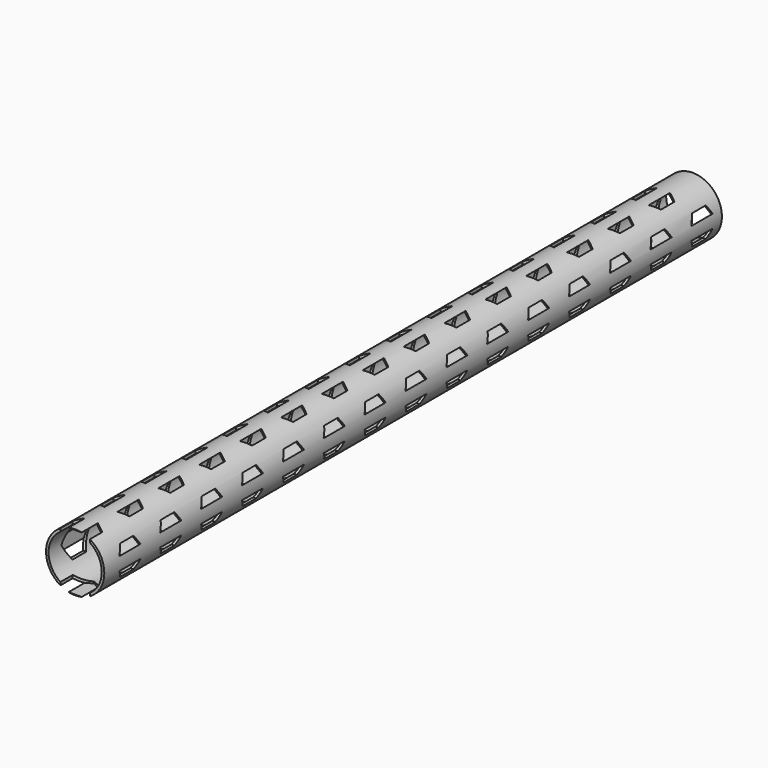
from build123d import *

# Parameters (mm, degrees)
F0_R     = 12.828899
F0_R_2   = 11.717032
F1_DEPTH = 170
F3_DEPTH = 12.5
F5_DEPTH = 12.5


with BuildPart() as f1:
    # F0 (on Front) → F1 (new body, symmetric)
    with BuildSketch(Plane.XZ):
        Circle(F0_R)
        Circle(F0_R_2, mode=Mode.SUBTRACT)
    extrude(amount=F1_DEPTH, both=True)

    # F2 (on Right) → F3 (cut, symmetric)
    with BuildSketch(Plane.YZ):
        Polygon((163.25, 6.495191), (155.75, 6.495191), (152, 0), (155.75, -6.495191), (163.25, -6.495191), (167, 0), align=None)
        Polygon((140.75, 6.495191), (133.25, 6.495191), (129.5, 0), (133.25, -6.495191), (140.75, -6.495191), (144.5, 0), align=None)
        Polygon((118.25, 6.495191), (110.75, 6.495191), (107, 0), (110.75, -6.495191), (118.25, -6.495191), (122, 0), align=None)
        Polygon((95.75, 6.495191), (88.25, 6.495191), (84.5, 0), (88.25, -6.495191), (95.75, -6.495191), (99.5, 0), align=None)
        Polygon((73.25, 6.495191), (65.75, 6.495191), (62, 0), (65.75, -6.495191), (73.25, -6.495191), (77, 0), align=None)
        Polygon((50.75, 6.495191), (43.25, 6.495191), (39.5, 0), (43.25, -6.495191), (50.75, -6.495191), (54.5, 0), align=None)
        Polygon((28.25, 6.495191), (20.75, 6.495191), (17, 0), (20.75, -6.495191), (28.25, -6.495191), (32, 0), align=None)
        Polygon((5.75, 6.495191), (-1.75, 6.495191), (-5.5, 0), (-1.75, -6.495191), (5.75, -6.495191), (9.5, 0), align=None)
        Polygon((-16.75, 6.495191), (-24.25, 6.495191), (-28, 0), (-24.25, -6.495191), (-16.75, -6.495191), (-13, 0), align=None)
        Polygon((-39.25, 6.495191), (-46.75, 6.495191), (-50.5, 0), (-46.75, -6.495191), (-39.25, -6.495191), (-35.5, 0), align=None)
        Polygon((-61.75, 6.495191), (-69.25, 6.495191), (-73, 0), (-69.25, -6.495191), (-61.75, -6.495191), (-58, 0), align=None)
        Polygon((-84.25, 6.495191), (-91.75, 6.495191), (-95.5, 0), (-91.75, -6.495191), (-84.25, -6.495191), (-80.5, 0), align=None)
        Polygon((-106.75, 6.495191), (-114.25, 6.495191), (-118, 0), (-114.25, -6.495191), (-106.75, -6.495191), (-103, 0), align=None)
        Polygon((-129.25, 6.495191), (-136.75, 6.495191), (-140.5, 0), (-136.75, -6.495191), (-129.25, -6.495191), (-125.5, 0), align=None)
        Polygon((-151.75, 6.495191), (-159.25, 6.495191), (-163, 0), (-159.25, -6.495191), (-151.75, -6.495191), (-148, 0), align=None)
    extrude(amount=F3_DEPTH, both=True, mode=Mode.SUBTRACT)

    # F4 (on Top) → F5 (cut, symmetric)
    with BuildSketch(Plane.XY):
        Polygon((6.497454, -170.729538), (6.497454, -163.229538), (0.002263, -159.479538), (-6.492927, -163.229538), (-6.492927, -170.729538), (0.002263, -174.479538), align=None)
        Polygon((6.497454, -148.229538), (6.497454, -140.729538), (0.002263, -136.979538), (-6.492927, -140.729538), (-6.492927, -148.229538), (0.002263, -151.979538), align=None)
        Polygon((6.497454, -125.729538), (6.497454, -118.229538), (0.002263, -114.479538), (-6.492927, -118.229538), (-6.492927, -125.729538), (0.002263, -129.479538), align=None)
        Polygon((6.497454, -103.229538), (6.497454, -95.729538), (0.002263, -91.979538), (-6.492927, -95.729538), (-6.492927, -103.229538), (0.002263, -106.979538), align=None)
        Polygon((6.497454, -80.729538), (6.497454, -73.229538), (0.002263, -69.479538), (-6.492927, -73.229538), (-6.492927, -80.729538), (0.002263, -84.479538), align=None)
        Polygon((6.497454, -58.229538), (6.497454, -50.729538), (0.002263, -46.979538), (-6.492927, -50.729538), (-6.492927, -58.229538), (0.002263, -61.979538), align=None)
        Polygon((6.497454, -35.729538), (6.497454, -28.229538), (0.002263, -24.479538), (-6.492927, -28.229538), (-6.492927, -35.729538), (0.002263, -39.479538), align=None)
        Polygon((6.497454, -13.229538), (6.497454, -5.729538), (0.002263, -1.979538), (-6.492927, -5.729538), (-6.492927, -13.229538), (0.002263, -16.979538), align=None)
        Polygon((6.497454, 9.270462), (6.497454, 16.770462), (0.002263, 20.520462), (-6.492927, 16.770462), (-6.492927, 9.270462), (0.002263, 5.520462), align=None)
        Polygon((6.497454, 31.770462), (6.497454, 39.270462), (0.002263, 43.020462), (-6.492927, 39.270462), (-6.492927, 31.770462), (0.002263, 28.020462), align=None)
        Polygon((6.497454, 54.270462), (6.497454, 61.770462), (0.002263, 65.520462), (-6.492927, 61.770462), (-6.492927, 54.270462), (0.002263, 50.520462), align=None)
        Polygon((6.497454, 76.770462), (6.497454, 84.270462), (0.002263, 88.020462), (-6.492927, 84.270462), (-6.492927, 76.770462), (0.002263, 73.020462), align=None)
        Polygon((6.497454, 99.270462), (6.497454, 106.770462), (0.002263, 110.520462), (-6.492927, 106.770462), (-6.492927, 99.270462), (0.002263, 95.520462), align=None)
        Polygon((6.495191, 121.770462), (6.495191, 129.270462), (0, 133.020462), (-6.495191, 129.270462), (-6.495191, 121.770462), (0, 118.020462), align=None)
        Polygon((6.495191, 144.270462), (6.495191, 151.770462), (0, 155.520462), (-6.495191, 151.770462), (-6.495191, 144.270462), (0, 140.520462), align=None)
    extrude(amount=F5_DEPTH, both=True, mode=Mode.SUBTRACT)


solid = f1.part
